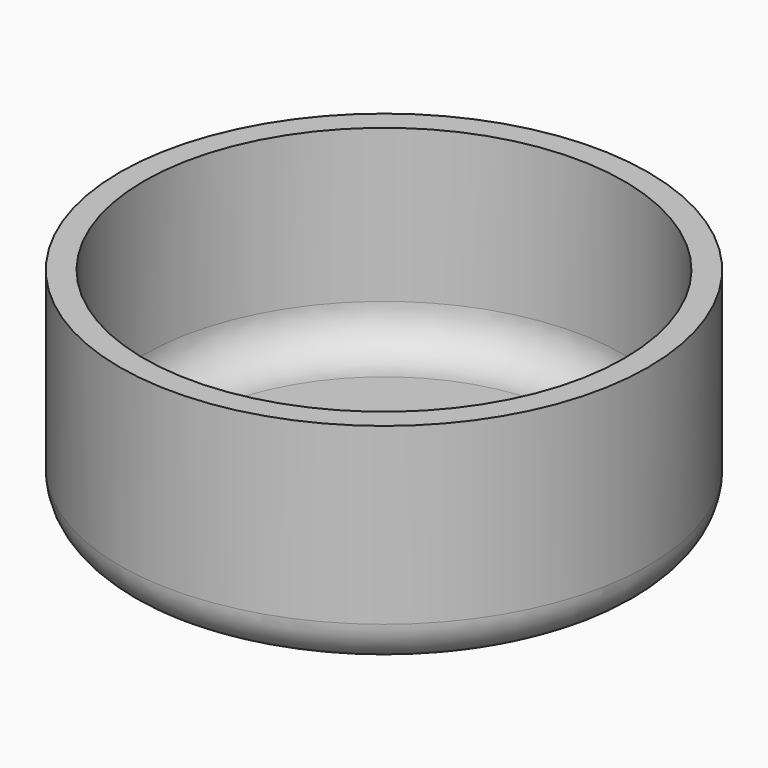
from build123d import *

# Parameters (mm, degrees)
F0_R     = 12.1
F0_R_2   = 3.25
F1_DEPTH = 10
F2_R     = 11
F2_R_2   = 3.25
F3_DEPTH = 9
F4_R     = 2
F5_R     = 2


with BuildPart() as f1:
    # F0 (on Top) → F1 (new body)
    with BuildSketch(Plane.XY):
        Circle(F0_R)
        Circle(F0_R_2, mode=Mode.SUBTRACT)
    extrude(amount=F1_DEPTH)

    # F2 (on face) → F3 (cut)
    with BuildSketch(Plane.XY.offset(10)):
        Circle(F2_R)
        Circle(F2_R_2, mode=Mode.SUBTRACT)
    extrude(amount=-F3_DEPTH, mode=Mode.SUBTRACT)

    # F4
    f4_edges = [f1.edges().sort_by_distance(p)[0] for p in [
        (-12.1, 0, 0),
    ]]
    fillet(f4_edges, radius=F4_R)

    # F5
    f5_edges = [f1.edges().sort_by_distance(p)[0] for p in [
        (-11, 0, 1),
    ]]
    fillet(f5_edges, radius=F5_R)


solid = f1.part
